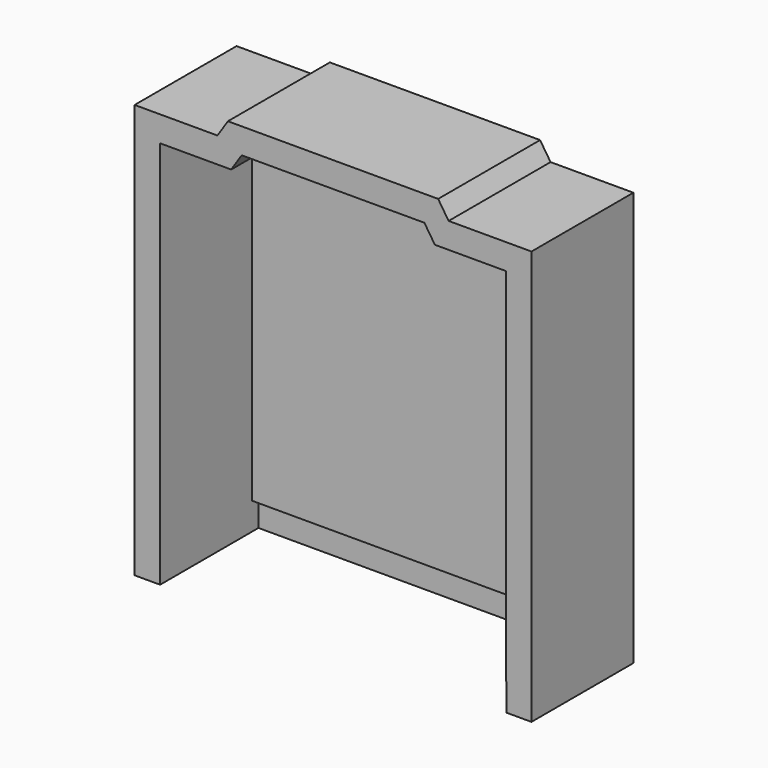
from build123d import *

# Parameters (mm, degrees)
F2_DEPTH  = 2
F0_W      = 4
F0_H      = 4
F0_H_2    = 57
F3_DEPTH  = 20
F3_FACE_W = 62.291004
F3_FACE_H = 20
F4_DEPTH  = 4.3
F5_DEPTH  = 4
F7_DEPTH  = 19.3


with BuildPart() as f2:
    # F0 (on Front) → F2 (new body)
    with BuildSketch(Plane.XZ):
        Polygon((-5.291004, 61), (-5.291004, 4), (0, 4), (49, 4), (49, 61), (37.840104, 61), (36.194602, 63.50845), (7.514394, 63.50845), (5.868892, 61), align=None)
    extrude(amount=F2_DEPTH)

    # F0 (on Front) → F3 (join)
    with BuildSketch(Plane.XZ):
        Polygon((-5.291004, 0), (0, 0), (53, 0), (53, 65), (40, 65), (38.354498, 67.50845), (5.354498, 67.50845), (3.708996, 65), (-5.291004, 65), (-5.291004, 61), (5.868892, 61), (7.514394, 63.50845), (36.194602, 63.50845), (37.840104, 61), (49, 61), (49, 4), (0, 4), (-5.291004, 4), align=None)
        with Locations((-7.291004, 2)):
            Rectangle(F0_W, F0_H)
        with Locations((-7.291004, 32.5)):
            Rectangle(F0_W, F0_H_2)
        with Locations((-7.291004, 63)):
            Rectangle(F0_W, F0_H)
    extrude(amount=F3_DEPTH)

    # F3_face (on face) → F4 (join)
    with BuildSketch(Plane(origin=(21.854498, -10, 0), x_dir=(1, 0, 0), z_dir=(0, 0, -1))):
        Rectangle(F3_FACE_W, F3_FACE_H)
    extrude(amount=-F4_DEPTH)

    # F3_face (on face) → F5 (join)
    with BuildSketch(Plane(origin=(21.854498, -10, 0), x_dir=(1, 0, 0), z_dir=(0, 0, -1))):
        Rectangle(F3_FACE_W, F3_FACE_H)
    extrude(amount=-F5_DEPTH)

    # F6 (on face) → F7 (cut)
    with BuildSketch(Plane.XZ.offset(20)):
        Polygon((49, 4.3), (-5.291004, 4.3), (-5.291004, 0), (49.075996, 0), (49.075996, 4.3), align=None)
    extrude(amount=-F7_DEPTH, mode=Mode.SUBTRACT)


solid = f2.part
